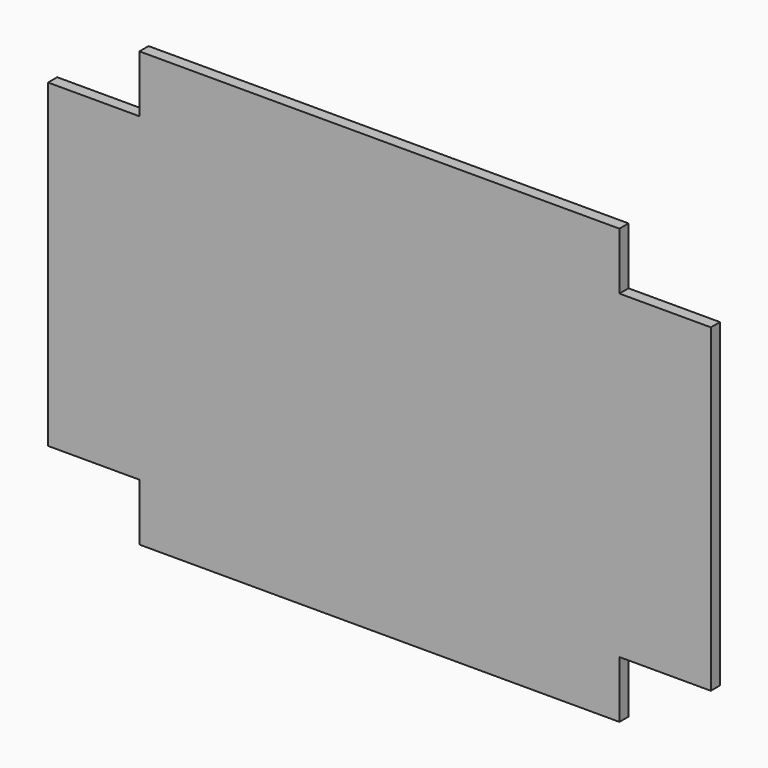
from build123d import *

# Parameters (mm, degrees)
F0_W     = 21
F0_H     = 38
F1_DEPTH = 1
F2_W     = 1
F2_H     = 28
F3_DEPTH = 8
F4_W     = 1
F4_H     = 28
F5_DEPTH = 8


with BuildPart() as f1:
    # F0 (on Front) → F1 (new body)
    with BuildSketch(Plane.XZ):
        Rectangle(F0_W, F0_H)
        with Locations((-21, 0)):
            Rectangle(F0_W, F0_H)
    extrude(amount=F1_DEPTH)

    # F2 (on face) → F3 (join)
    with BuildSketch(Plane.YZ.offset(10.5)):
        with Locations((-0.5, 0)):
            Rectangle(F2_W, F2_H)
    extrude(amount=F3_DEPTH)

    # F4 (on face) → F5 (join)
    with BuildSketch(Plane(origin=(-31.5, 0, 0), x_dir=(0, -1, 0), z_dir=(-1, 0, 0))):
        with Locations((0.5, 0)):
            Rectangle(F4_W, F4_H)
    extrude(amount=F5_DEPTH)


solid = f1.part
